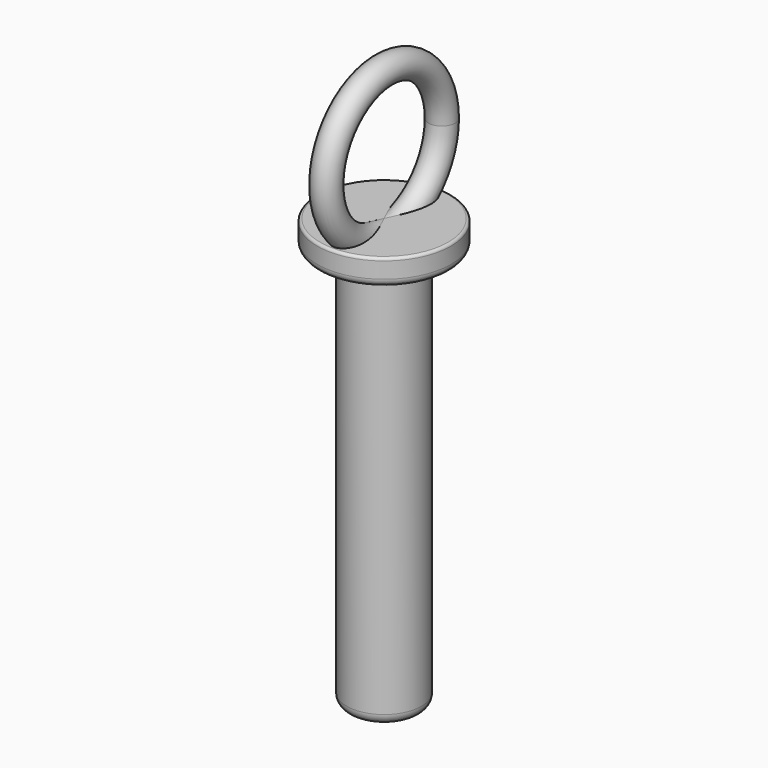
from build123d import *

# Parameters (mm, degrees)
F0_R     = 7
F1_DEPTH = 75
F2_R     = 12.5
F3_DEPTH = 5
F5_R     = 2.5
F7_R     = 1.5
F8_R     = 0.5
F9_R     = 2


with BuildPart() as f1:
    # F0 (on Top) → F1 (new body)
    with BuildSketch(Plane.XY):
        Circle(F0_R)
    extrude(amount=F1_DEPTH)

    # F2 (on face) → F3 (join)
    with BuildSketch(Plane.XY.offset(75)):
        Circle(F2_R)
    extrude(amount=F3_DEPTH)

    # F6: sweep along a path in F4
    with BuildLine(Plane.YZ) as f6_path:
        CenterArc((0, 91), 12.5, 0, 360)
    # F5 (on Front) → F6 (sweep)
    with BuildSketch(Plane.XZ):
        with Locations((0, 77.5)):
            Circle(F5_R)
    sweep(path=f6_path.line)

    # F7
    f7_edges = [f1.edges().sort_by_distance(p)[0] for p in [
        (-7, 0, 75),
        (-12.5, 0, 75),
    ]]
    fillet(f7_edges, radius=F7_R)

    # F8
    f8_edges = [f1.edges().sort_by_distance(p)[0] for p in [
        (-12.5, 0, 80),
    ]]
    fillet(f8_edges, radius=F8_R)

    # F9
    f9_edges = [f1.edges().sort_by_distance(p)[0] for p in [
        (-7, 0, 0),
    ]]
    fillet(f9_edges, radius=F9_R)


solid = f1.part
